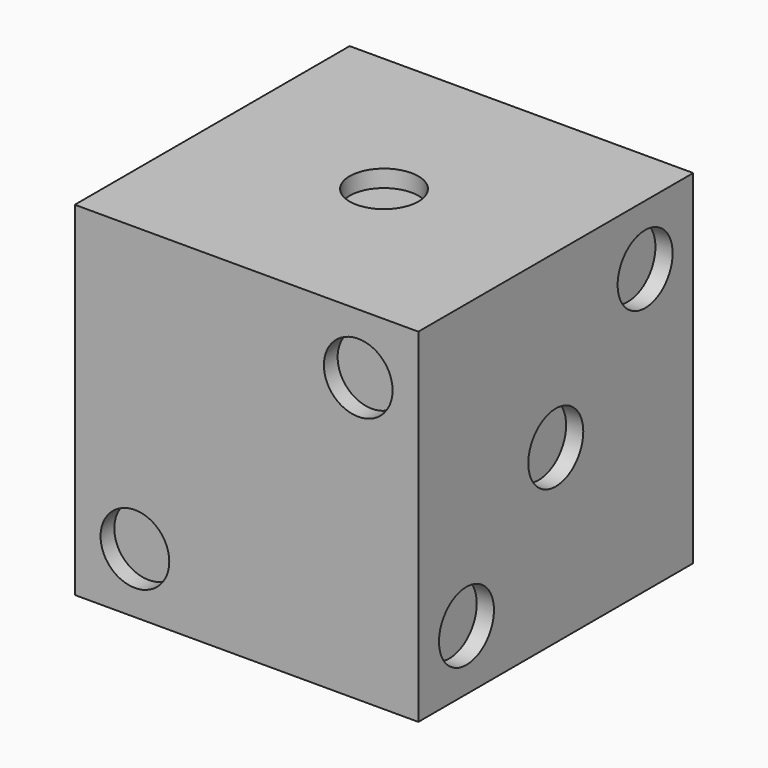
from build123d import *

# Parameters (mm, degrees)
F0_W      = 127
F0_H      = 127
F1_DEPTH  = 127
F2_R      = 12.7
F3_DEPTH  = 6.35
F4_R      = 12.7
F5_DEPTH  = 6.35
F6_R      = 12.7
F7_DEPTH  = 6.35
F8_R      = 12.7
F9_DEPTH  = 6.35
F10_R     = 12.7
F11_DEPTH = 6.35
F12_R     = 12.7
F13_DEPTH = 6.35


with BuildPart() as f1:
    # F0 (on Top) → F1 (new body)
    with BuildSketch(Plane.XY):
        with Locations((91.374451, 68.489871)):
            Rectangle(F0_W, F0_H)
    extrude(amount=F1_DEPTH)

    # F2 (on face) → F3 (cut)
    with BuildSketch(Plane.XY.offset(127)):
        with Locations((91.374451, 68.489871)):
            Circle(F2_R)
    extrude(amount=-F3_DEPTH, mode=Mode.SUBTRACT)

    # F4 (on face) → F5 (cut)
    with BuildSketch(Plane.XZ.offset(-4.989871)):
        with Locations((50.099451, 22.225)):
            Circle(F4_R)
        with Locations((132.649451, 104.775)):
            Circle(F4_R)
    extrude(amount=-F5_DEPTH, mode=Mode.SUBTRACT)

    # F6 (on face) → F7 (cut)
    with BuildSketch(Plane.YZ.offset(154.874451)):
        with Locations((68.489871, 63.5)):
            Circle(F6_R)
        with Locations((109.764871, 104.775)):
            Circle(F6_R)
        with Locations((27.214871, 22.225)):
            Circle(F6_R)
    extrude(amount=-F7_DEPTH, mode=Mode.SUBTRACT)

    # F8 (on face) → F9 (cut)
    with BuildSketch(Plane(origin=(27.874451, 0, 0), x_dir=(0, -1, 0), z_dir=(-1, 0, 0))):
        with Locations((-109.764871, 104.775)):
            Circle(F8_R)
        with Locations((-27.214871, 104.775)):
            Circle(F8_R)
        with Locations((-109.764871, 22.225)):
            Circle(F8_R)
        with Locations((-27.214871, 22.225)):
            Circle(F8_R)
    extrude(amount=-F9_DEPTH, mode=Mode.SUBTRACT)

    # F10 (on face) → F11 (cut)
    with BuildSketch(Plane(origin=(0, 131.989871, 0), x_dir=(-1, 0, 0), z_dir=(0, 1, 0))):
        with Locations((-132.649451, 104.775)):
            Circle(F10_R)
        with Locations((-50.099451, 104.775)):
            Circle(F10_R)
        with Locations((-132.649451, 22.225)):
            Circle(F10_R)
        with Locations((-50.099451, 22.225)):
            Circle(F10_R)
        with Locations((-91.374451, 63.5)):
            Circle(F10_R)
    extrude(amount=-F11_DEPTH, mode=Mode.SUBTRACT)

    # F12 (on face) → F13 (cut)
    with BuildSketch(Plane(origin=(0, 0, 0), x_dir=(1, 0, 0), z_dir=(0, 0, -1))):
        with Locations((50.099451, -27.214871)):
            Circle(F12_R)
        with Locations((132.649451, -27.214871)):
            Circle(F12_R)
        with Locations((50.099451, -68.489871)):
            Circle(F12_R)
        with Locations((132.649451, -68.489871)):
            Circle(F12_R)
        with Locations((50.099451, -109.764871)):
            Circle(F12_R)
        with Locations((132.649451, -109.764871)):
            Circle(F12_R)
    extrude(amount=-F13_DEPTH, mode=Mode.SUBTRACT)


solid = f1.part
